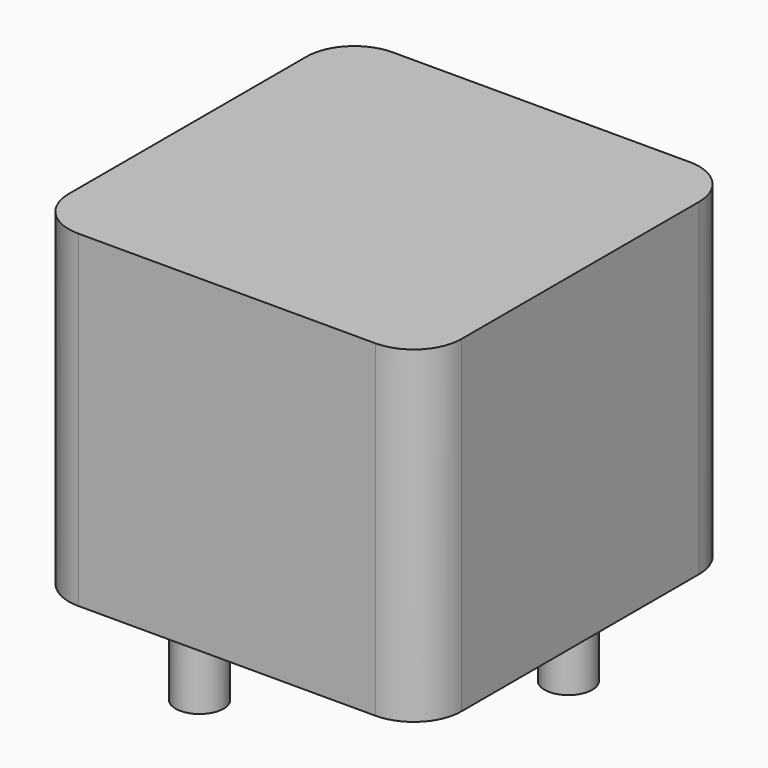
from build123d import *

# Parameters (mm, degrees)
SKETCH001_R  = 0.7
PAD001_DEPTH = 3.5
SKETCH_W     = 11.5
SKETCH_H     = 11.5
PAD_DEPTH    = 9.6
FILLET_R     = 1.4


with BuildPart() as pad001:
    # Sketch001 → Pad001 (new body)
    with BuildSketch(Plane.XY.offset(0.5)):
        Circle(SKETCH001_R)
        with Locations((6, 6)):
            Circle(SKETCH001_R)
    extrude(amount=-PAD001_DEPTH)


with BuildPart() as fillet_body:
    # Sketch → Pad (new body)
    with BuildSketch(Plane.XY.offset(0.1)):
        with Locations((3, 3)):
            Rectangle(SKETCH_W, SKETCH_H)
    extrude(amount=PAD_DEPTH)

    # Fillet
    fillet_edges = [fillet_body.edges().sort_by_distance(p)[0] for p in [
        (8.75, -2.75, 4.9),
        (8.75, 8.75, 4.9),
        (-2.75, -2.75, 4.9),
        (-2.75, 8.75, 4.9),
    ]]
    fillet(fillet_edges, radius=FILLET_R)


solid = Compound([pad001.part, fillet_body.part])
